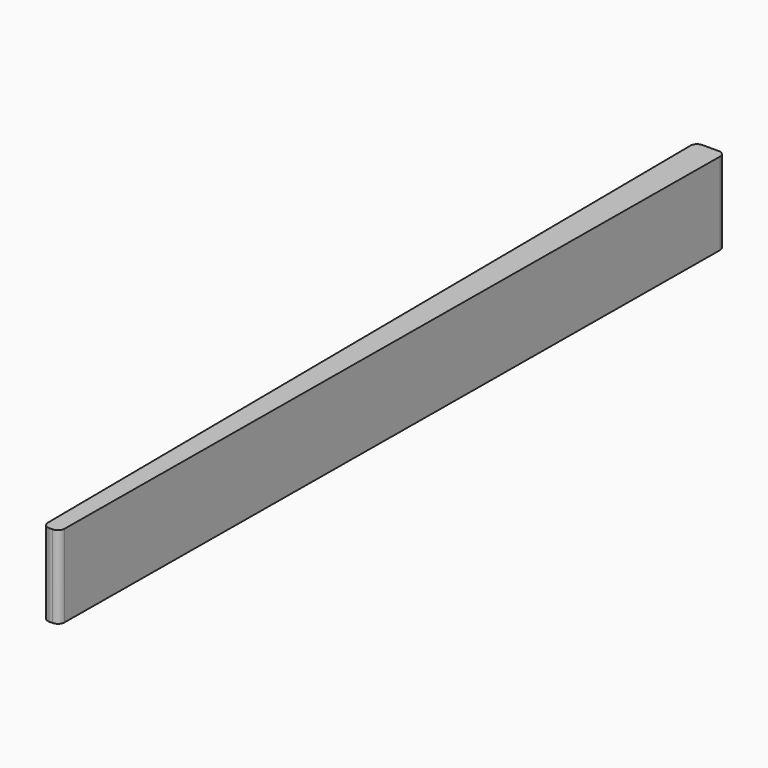
from build123d import *

# Parameters (mm, degrees)
PAD_DEPTH = 10
FILLET_R  = 0.8


with BuildPart() as part:
    # Sketch → Pad (new body)
    with BuildSketch(Plane.XY):
        Polygon((-1, 0), (-1.8, 100), (1.8, 100), (1, 0), align=None)
    extrude(amount=PAD_DEPTH)

    # Fillet
    fillet_edges = [part.edges().sort_by_distance(p)[0] for p in [
        (-1.8, 100, 5),
        (1.8, 100, 5),
        (-1, 0, 5),
        (1, 0, 5),
    ]]
    fillet(fillet_edges, radius=FILLET_R)


solid = part.part
